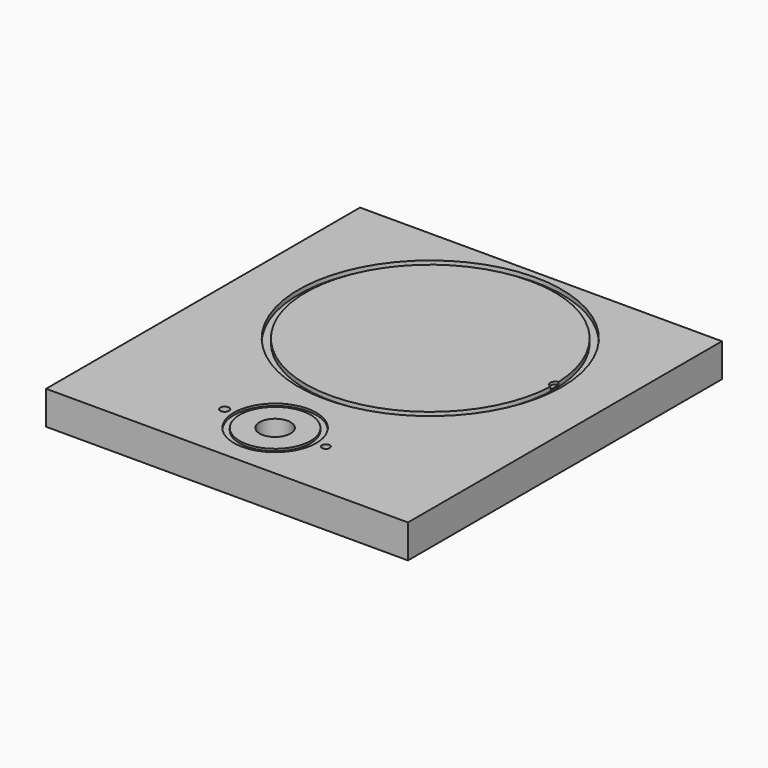
from build123d import *

# Parameters (mm, degrees)
CYLINDER163_R     = 2.58
CYLINDER163_DEPTH = 29
CYLINDER161_R     = 72.517
CYLINDER161_DEPTH = 3
CYLINDER160_R     = 76.708
CYLINDER160_DEPTH = 3
CYLINDER162_R     = 3.02
CYLINDER162_DEPTH = 2
CYLINDER159_R     = 9
CYLINDER159_DEPTH = 21
CYLINDER158_R     = 20.635
CYLINDER158_DEPTH = 41.275
CYLINDER157_R     = 24
CYLINDER157_DEPTH = 3.175
CYLINDER164_R     = 2.28
CYLINDER164_DEPTH = 29
BOX_W             = 210.82
BOX_H             = 228.6
BOX_DEPTH         = 19.5


with BuildPart() as cylinder015:
    # Cylinder163 → Cylinder163 (new body)
    with BuildSketch(Plane(origin=(76, 35, 14), x_dir=(1, 0, 0), z_dir=(0, 0, 1))):
        Circle(CYLINDER163_R)
    extrude(amount=CYLINDER163_DEPTH)


with BuildPart() as cylinder013:
    # Cylinder161 → Cylinder161 (new body)
    with BuildSketch(Plane(origin=(105.41, 148, 17), x_dir=(1, 0, 0), z_dir=(0, 0, 1))):
        Circle(CYLINDER161_R)
    extrude(amount=CYLINDER161_DEPTH)


with BuildPart() as cut021:
    # Cylinder160 → Cylinder160 (new body)
    with BuildSketch(Plane(origin=(105.41, 148, 17), x_dir=(1, 0, 0), z_dir=(0, 0, 1))):
        Circle(CYLINDER160_R)
    extrude(amount=CYLINDER160_DEPTH)

    # Cut021: cut Cylinder013
    add(cylinder013.part, mode=Mode.SUBTRACT)


with BuildPart() as cylinder014:
    # Cylinder162 → Cylinder162 (new body)
    with BuildSketch(Plane(origin=(178.41, 148, 18), x_dir=(1, 0, 0), z_dir=(0, 0, 1))):
        Circle(CYLINDER162_R)
    extrude(amount=CYLINDER162_DEPTH)


with BuildPart() as cylinder011:
    # Cylinder159 → Cylinder159 (new body)
    with BuildSketch(Plane(origin=(105.41, 35, 0), x_dir=(1, 0, 0), z_dir=(0, 0, 1))):
        Circle(CYLINDER159_R)
    extrude(amount=CYLINDER159_DEPTH)


with BuildPart() as cylinder010:
    # Cylinder158 → Cylinder158 (new body)
    with BuildSketch(Plane.XY):
        Circle(CYLINDER158_R)
    extrude(amount=CYLINDER158_DEPTH)


with BuildPart() as cut020:
    # Cylinder157 → Cylinder157 (new body)
    with BuildSketch(Plane.XY):
        Circle(CYLINDER157_R)
    extrude(amount=CYLINDER157_DEPTH)

    # Cut020: cut Cylinder010
    add(cylinder010.part, mode=Mode.SUBTRACT)


with BuildPart() as cut020_1:
    # Cut020 placement: moved
    add(cut020.part.moved(Location((105.41, 35, 18.25))))


with BuildPart() as fusion058:
    # Cylinder164 → Cylinder164 (new body)
    with BuildSketch(Plane(origin=(135, 35, 14), x_dir=(1, 0, 0), z_dir=(0, 0, 1))):
        Circle(CYLINDER164_R)
    extrude(amount=CYLINDER164_DEPTH)

    # Fusion058: union Cylinder015, Cut021, Cylinder014, Cylinder011, Cut020
    add(cylinder015.part)
    add(cut021.part)
    add(cylinder014.part)
    add(cylinder011.part)
    add(cut020_1.part)


with BuildPart() as model_cut022:
    # Box → Box (new body)
    with BuildSketch(Plane.XY):
        with Locations((105.41, 114.3)):
            Rectangle(BOX_W, BOX_H)
    extrude(amount=BOX_DEPTH)

    # Cut022: cut Fusion058
    add(fusion058.part, mode=Mode.SUBTRACT)


solid = model_cut022.part
